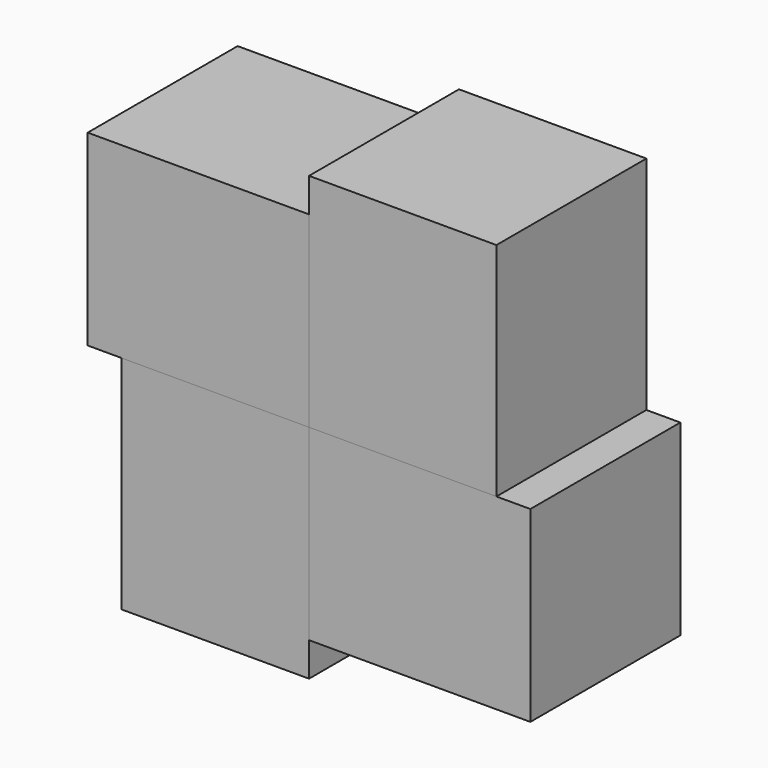
from build123d import *

# Parameters (mm, degrees)
F0_W     = 76.2
F0_H     = 76.2
F1_DEPTH = 90
F2_COUNT = 4


with BuildPart() as f1:
    # F0 (on Top) → F1 (new body)
    with BuildSketch(Plane.XY):
        with Locations((42.174533, 38.1)):
            Rectangle(F0_W, F0_H)
    extrude(amount=F1_DEPTH)


with BuildPart() as f2_1:
    # F2: instance of F1
    add(f1.part.rotate(Axis((80.274533, 38.1, 90), (0, 1, 0)), 1 * 360 / F2_COUNT))


with BuildPart() as f2_2:
    # F2: instance of F1
    add(f1.part.rotate(Axis((80.274533, 38.1, 90), (0, 1, 0)), 2 * 360 / F2_COUNT))


with BuildPart() as f2_3:
    # F2: instance of F1
    add(f1.part.rotate(Axis((80.274533, 38.1, 90), (0, 1, 0)), 3 * 360 / F2_COUNT))


solid = Compound([f1.part, f2_1.part, f2_2.part, f2_3.part])
